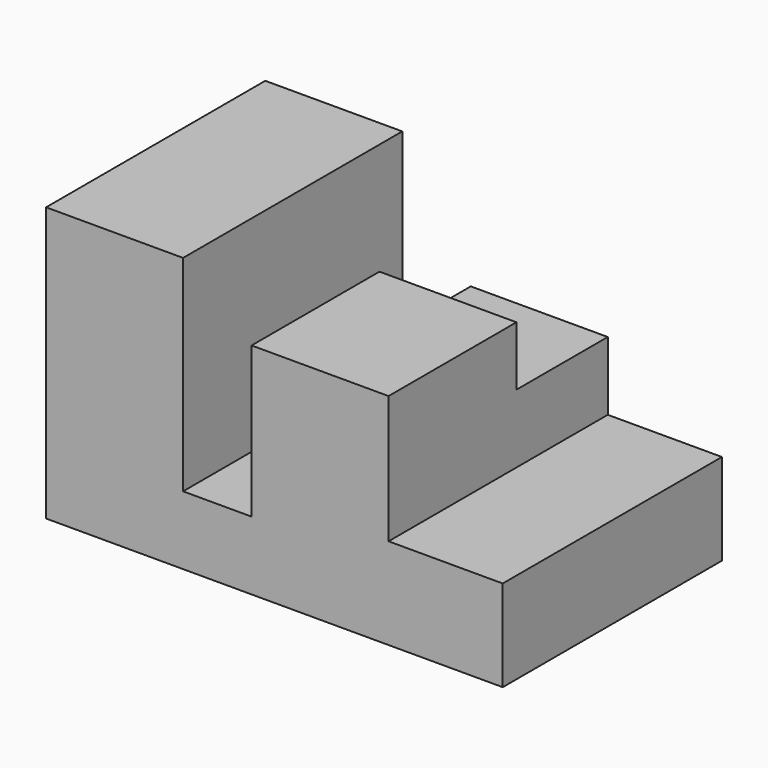
from build123d import *

# Parameters (mm, degrees)
F1_DEPTH = 762
F2_W     = 635
F2_H     = 330.2
F3_DEPTH = 762


with BuildPart() as f1:
    # F0 (on Front) → F1 (new body, symmetric)
    with BuildSketch(Plane.XZ):
        Polygon((-1270, 762), (-1270, -762), (1270, -762), (1270, -254), (635, -254), (635, 457.2), (-127, 457.2), (-127, -381), (-508, -381), (-508, 762), align=None)
    extrude(amount=F1_DEPTH, both=True)

    # F2 (on face) → F3 (cut)
    with BuildSketch(Plane.YZ.offset(635)):
        with Locations((444.5, 292.1)):
            Rectangle(F2_W, F2_H)
    extrude(amount=-F3_DEPTH, mode=Mode.SUBTRACT)


solid = f1.part
